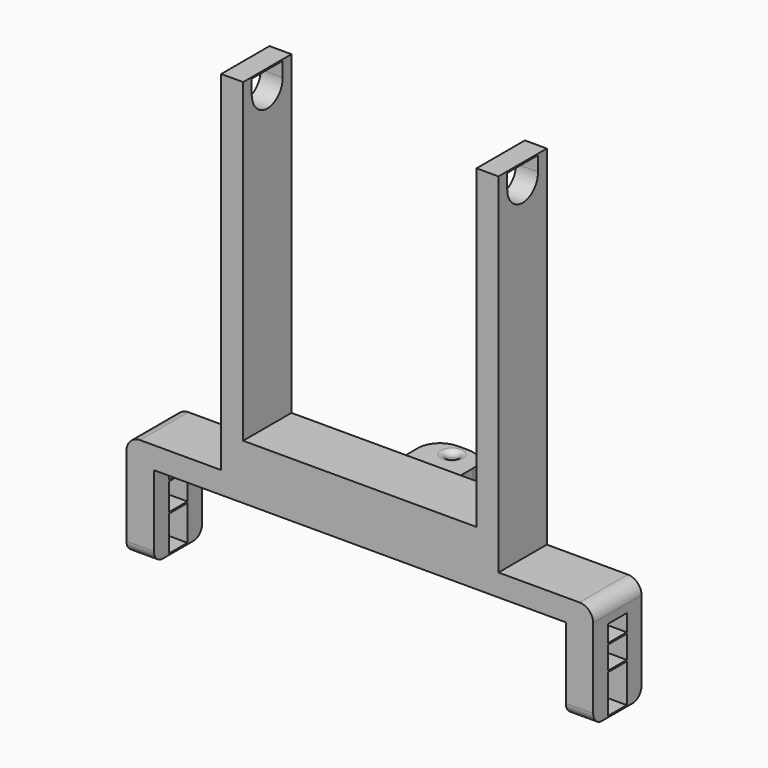
from build123d import *

# Parameters (mm, degrees)
F1_DEPTH  = 22
F2_R      = 5
F4_DEPTH  = 180
F5_W      = 8
F5_H      = 0.5
F6_DEPTH  = 15
F7_W      = 8
F7_H      = 0.5
F8_DEPTH  = 15
F9_R      = 4
F10_W     = 8.5
F10_H     = 30
F11_DEPTH = 195
F12_W     = 20
F12_H     = 6.6774320376
F13_DEPTH = 25
F14_R     = 8
F15_R     = 2
F16_DEPTH = 25
F17_R     = 2
F18_W     = 10
F18_H     = 0.5
F19_DEPTH = 10
F20_W     = 10
F20_H     = 0.5
F21_DEPTH = 9


with BuildPart() as f1:
    # F0 (on Front) → F1 (new body)
    with BuildSketch(Plane.XZ):
        Polygon((-42.5, 0), (-42.5, 115), (-50.5, 115), (-50.5, -12), (0, -12), (50.5, -12), (50.5, 115), (42.5, 115), (42.5, 0), align=None)
        Polygon((0, -12), (-50.5, -12), (-85, -12), (-85, -50), (-75, -50), (-75, -20), (75, -20), (75, -50), (85, -50), (85, -12), (50.5, -12), align=None)
    extrude(amount=F1_DEPTH)

    # F2
    f2_edges = [f1.edges().sort_by_distance(p)[0] for p in [
        (-85, -11, -12),
        (85, -11, -12),
    ]]
    fillet(f2_edges, radius=F2_R)

    # F3 (on face) → F4 (cut)
    with BuildSketch(Plane(origin=(-50.5, 0, 0), x_dir=(0, -1, 0), z_dir=(-1, 0, 0))):
        with BuildLine():
            Line((4.0000428934, 115), (7.2924270352, 115))
            ThreePointArc((7.2924270352, 115), (11, 116.062500298), (14.7075729648, 115))
            Line((14.7075729648, 115), (18.1339288354, 115))
            Line((18.1339288354, 115), (18.1339288354, 118.5624971986))
            Line((18.1339288354, 118.5624971986), (4.0000428934, 118.5624971986))
            Line((4.0000428934, 118.5624971986), (4.0000428934, 115))
        make_face()
        with BuildLine():
            Line((17.9999571066, 109.0870055167), (4.0000428934, 109.0870055167))
            ThreePointArc((4.0000428934, 109.0870055167), (10.9877473719, 102.0625110214), (18, 109.062500298))
            ThreePointArc((18, 109.062500298), (17.9999892766, 109.0747529262), (17.9999571066, 109.0870055167))
        make_face()
        with BuildLine():
            ThreePointArc((7.2924270352, 115), (4.8841455219, 112.4678378735), (4.0000428934, 109.0870055167))
            Line((4.0000428934, 109.0870055167), (17.9999571066, 109.0870055167))
            ThreePointArc((17.9999571066, 109.0870055167), (17.1158544781, 112.4678378735), (14.7075729648, 115))
            Line((14.7075729648, 115), (7.2924270352, 115))
        make_face()
        with BuildLine():
            ThreePointArc((14.7075729648, 115), (17.1158544781, 112.4678378735), (17.9999571066, 109.0870055167))
            Line((17.9999571066, 109.0870055167), (18.1339288354, 109.0870055167))
            Line((18.1339288354, 109.0870055167), (18.1339288354, 115))
            Line((18.1339288354, 115), (14.7075729648, 115))
        make_face()
        with BuildLine():
            Line((4.0000428934, 115), (4.0000428934, 109.0870055167))
            ThreePointArc((4.0000428934, 109.0870055167), (4.8841455219, 112.4678378735), (7.2924270352, 115))
            Line((7.2924270352, 115), (4.0000428934, 115))
        make_face()
    extrude(amount=-F4_DEPTH, mode=Mode.SUBTRACT)

    # F5 (on face) → F6 (join)
    with BuildSketch(Plane.XZ.offset(4.0000428934)):
        with Locations((-46.5, 114.75)):
            Rectangle(F5_W, F5_H)
    extrude(amount=F6_DEPTH)

    # F7 (on face) → F8 (join)
    with BuildSketch(Plane.XZ.offset(4.0000428934)):
        with Locations((46.5, 114.75)):
            Rectangle(F7_W, F7_H)
    extrude(amount=F8_DEPTH)

    # F9
    f9_edges = [f1.edges().sort_by_distance(p)[0] for p in [
        (-80, -22, -50),
        (-80, 0, -50),
        (80, -22, -50),
        (80, 0, -50),
    ]]
    fillet(f9_edges, radius=F9_R)

    # F10 (on face) → F11 (cut)
    with BuildSketch(Plane(origin=(-85, 0, 0), x_dir=(0, -1, 0), z_dir=(-1, 0, 0))):
        with Locations((10.98183, -35)):
            Rectangle(F10_W, F10_H)
    extrude(amount=-F11_DEPTH, mode=Mode.SUBTRACT)

    # F12 (on face) → F13 (join)
    with BuildSketch(Plane(origin=(0, 0, 0), x_dir=(-1, 0, 0), z_dir=(0, 1, 0))):
        with Locations((0, -10.9657765897)):
            Rectangle(F12_W, F12_H)
    extrude(amount=F13_DEPTH)

    # F14
    f14_edges = [f1.edges().sort_by_distance(p)[0] for p in [
        (10, 25, -10.965777),
        (-10, 25, -10.965777),
    ]]
    fillet(f14_edges, radius=F14_R)

    # F15 (on face) → F16 (cut)
    with BuildSketch(Plane.XY.offset(-7.6270605709)):
        with Locations((0, 20)):
            Circle(F15_R)
    extrude(amount=-F16_DEPTH, mode=Mode.SUBTRACT)

    # F17
    f17_edges = [f1.edges().sort_by_distance(p)[0] for p in [
        (-2, 20, -7.627061),
        (-2, 20, -14.304493),
    ]]
    fillet(f17_edges, radius=F17_R)

    # F18 (on face) → F19 (join)
    with BuildSketch(Plane(origin=(0, -15.23183, 0), x_dir=(-1, 0, 0), z_dir=(0, 1, 0))):
        with Locations((-80, -26.3965432942)):
            Rectangle(F18_W, F18_H)
        with Locations((-80, -49.75)):
            Rectangle(F18_W, F18_H)
        with Locations((-80, -35.25)):
            Rectangle(F18_W, F18_H)
    extrude(amount=F19_DEPTH)

    # F20 (on face) → F21 (join)
    with BuildSketch(Plane(origin=(0, -15.23183, 0), x_dir=(-1, 0, 0), z_dir=(0, 1, 0))):
        with Locations((80.0000029802, -26.1500017196)):
            Rectangle(F20_W, F20_H)
        with Locations((80, -49.75)):
            Rectangle(F20_W, F20_H)
        with Locations((80, -36.490347743)):
            Rectangle(F20_W, F20_H)
    extrude(amount=F21_DEPTH)


solid = f1.part
